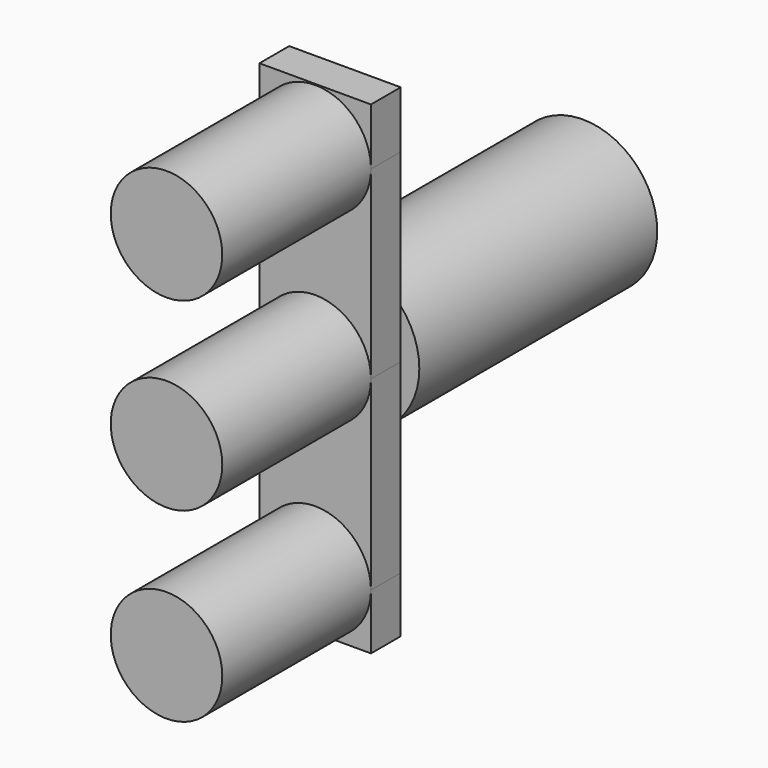
from build123d import *

# Parameters (mm, degrees)
F1_DEPTH = 30
F2_DEPTH = 5
F3_R     = 10
F4_DEPTH = 40


with BuildPart() as f1:
    # F0 (on Front) → F1 (new body)
    with BuildSketch(Plane.XZ):
        with BuildLine():
            ThreePointArc((0, 7.5), (-5.3033008457, 5.3033008721), (-7.5, 3.74e-08))
            ThreePointArc((-7.5, 3.74e-08), (-5.3033008721, -5.3033008457), (0, -7.5))
            ThreePointArc((0, -7.5), (5.3033008589, -5.3033008589), (7.5, 0))
            ThreePointArc((7.5, 0), (5.3033008589, 5.3033008589), (0, 7.5))
        make_face()
    extrude(amount=F1_DEPTH)


with BuildPart() as f1b:
    # F0 (on Front) → F1, piece 2 (new body)
    with BuildSketch(Plane.XZ):
        with BuildLine():
            ThreePointArc((7.5, 24.8588714749), (0, 32.3588714749), (-7.5, 24.8588714749))
            ThreePointArc((-7.5, 24.8588714749), (-5.3033008589, 19.555570616), (0, 17.3588714749))
            ThreePointArc((0, 17.3588714749), (5.3033008589, 19.555570616), (7.5, 24.8588714749))
        make_face()
    extrude(amount=F1_DEPTH)


with BuildPart() as f1c:
    # F0 (on Front) → F1, piece 3 (new body)
    with BuildSketch(Plane.XZ):
        with BuildLine():
            ThreePointArc((0, -17.5), (-5.3033008589, -19.6966991411), (-7.5, -25))
            ThreePointArc((-7.5, -25), (-5.3033008589, -30.3033008589), (0, -32.5))
            ThreePointArc((0, -32.5), (5.3033008589, -30.3033008589), (7.5, -25))
            ThreePointArc((7.5, -25), (5.3033008589, -19.6966991411), (0, -17.5))
        make_face()
    extrude(amount=F1_DEPTH)


with BuildPart() as f2:
    # F0 (on Front) → F2 (new body)
    with BuildSketch(Plane.XZ):
        with BuildLine():
            Line((7.5, 0), (7.5, 24.8588714749))
            ThreePointArc((7.5, 24.8588714749), (5.3033008589, 19.555570616), (0, 17.3588714749))
            Line((0, 17.3588714749), (0, 7.5))
            ThreePointArc((0, 7.5), (5.3033008589, 5.3033008589), (7.5, 0))
        make_face()
        with BuildLine():
            ThreePointArc((0, 17.3588714749), (-5.3033008589, 19.555570616), (-7.5, 24.8588714749))
            Line((-7.5, 24.8588714749), (-7.5, 3.74e-08))
            ThreePointArc((-7.5, 3.74e-08), (-5.3033008457, 5.3033008721), (0, 7.5))
            Line((0, 7.5), (0, 17.3588714749))
        make_face()
    extrude(amount=F2_DEPTH)


with BuildPart() as f2b:
    # F0 (on Front) → F2, piece 2 (new body)
    with BuildSketch(Plane.XZ):
        with BuildLine():
            Line((7.5, 32.5), (-7.5, 32.5))
            Line((-7.5, 32.5), (-7.5, 24.8588714749))
            ThreePointArc((-7.5, 24.8588714749), (0, 32.3588714749), (7.5, 24.8588714749))
            Line((7.5, 24.8588714749), (7.5, 32.5))
        make_face()
    extrude(amount=F2_DEPTH)


with BuildPart() as f2c:
    # F0 (on Front) → F2, piece 3 (new body)
    with BuildSketch(Plane.XZ):
        with BuildLine():
            Line((7.5, -25), (7.5, 0))
            ThreePointArc((7.5, 0), (5.3033008589, -5.3033008589), (0, -7.5))
            Line((0, -7.5), (0, -17.5))
            ThreePointArc((0, -17.5), (5.3033008589, -19.6966991411), (7.5, -25))
        make_face()
        with BuildLine():
            ThreePointArc((0, -7.5), (-5.3033008721, -5.3033008457), (-7.5, 3.74e-08))
            Line((-7.5, 3.74e-08), (-7.5, -25))
            ThreePointArc((-7.5, -25), (-5.3033008589, -19.6966991411), (0, -17.5))
            Line((0, -17.5), (0, -7.5))
        make_face()
    extrude(amount=F2_DEPTH)


with BuildPart() as f2d:
    # F0 (on Front) → F2, piece 4 (new body)
    with BuildSketch(Plane.XZ):
        with BuildLine():
            ThreePointArc((0, -32.5), (-5.3033008589, -30.3033008589), (-7.5, -25))
            Line((-7.5, -25), (-7.5, -32.5))
            Line((-7.5, -32.5), (0, -32.5))
        make_face()
    extrude(amount=F2_DEPTH)


with BuildPart() as f2e:
    # F0 (on Front) → F2, piece 5 (new body)
    with BuildSketch(Plane.XZ):
        with BuildLine():
            Line((7.5, -32.5), (7.5, -25))
            ThreePointArc((7.5, -25), (5.3033008589, -30.3033008589), (0, -32.5))
            Line((0, -32.5), (7.5, -32.5))
        make_face()
    extrude(amount=F2_DEPTH)


with BuildPart() as f4:
    # F3 (on face) → F4 (new body)
    with BuildSketch(Plane.XZ):
        Circle(F3_R)
        with BuildLine():
            ThreePointArc((-7.5, 3.74e-08), (-5.3033008457, 5.3033008721), (0, 7.5))
            ThreePointArc((0, 7.5), (5.3033008589, 5.3033008589), (7.5, 0))
            ThreePointArc((7.5, 0), (5.3033008589, -5.3033008589), (0, -7.5))
            ThreePointArc((0, -7.5), (-5.3033008721, -5.3033008457), (-7.5, 3.74e-08))
        make_face(mode=Mode.SUBTRACT)
    extrude(amount=-F4_DEPTH)


solid = Compound([f1.part, f1b.part, f1c.part, f2.part, f2b.part, f2c.part, f2d.part, f2e.part, f4.part])
